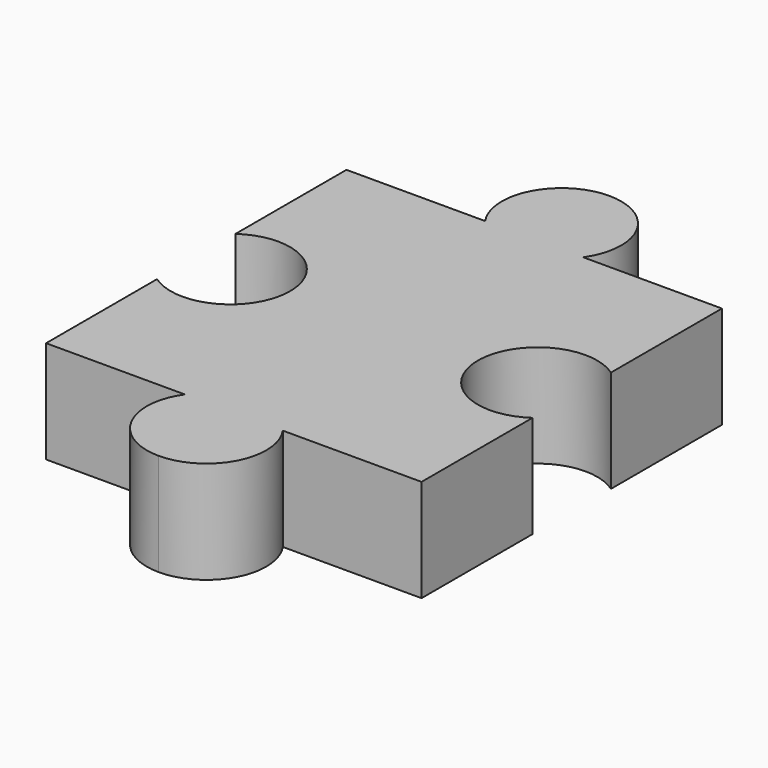
from build123d import *

# Parameters (mm, degrees)
F0_W     = 220
F0_H     = 330
F1_DEPTH = 60
F3_DEPTH = 60.001
F4_R     = 35
F5_DEPTH = 60.001


with BuildPart() as f1:
    # F0 (on Top) → F1 (new body)
    with BuildSketch(Plane.XY):
        Rectangle(F0_W, F0_H)
    extrude(amount=F1_DEPTH)

    # F2 (on face) → F3 (cut, through all)
    with BuildSketch(Plane.XY.offset(60)):
        with BuildLine():
            ThreePointArc((-28.722813, 110), (-31.024184, 146.201852), (0, 165))
            Line((0, 165), (-110, 165))
            Line((-110, 165), (-110, 110))
            Line((-110, 110), (-28.722813, 110))
        make_face()
        with BuildLine():
            ThreePointArc((0, 165), (31.024184, 146.201852), (28.722813, 110))
            Line((28.722813, 110), (110, 110))
            Line((110, 110), (110, 165))
            Line((110, 165), (0, 165))
        make_face()
        with BuildLine():
            Line((110, -165), (110, -110))
            Line((110, -110), (28.722813, -110))
            ThreePointArc((28.722813, -110), (31.024184, -146.201852), (0, -165))
            Line((0, -165), (110, -165))
        make_face()
        with BuildLine():
            Line((-110, -165), (0, -165))
            ThreePointArc((0, -165), (-31.024184, -146.201852), (-28.722813, -110))
            Line((-28.722813, -110), (-110, -110))
            Line((-110, -110), (-110, -165))
        make_face()
    extrude(amount=-F3_DEPTH, mode=Mode.SUBTRACT)

    # F4 (on face) → F5 (cut, through all)
    with BuildSketch(Plane.XY.offset(60)):
        with Locations((-90, 0)):
            Circle(F4_R)
        with Locations((90, 0)):
            Circle(F4_R)
    extrude(amount=-F5_DEPTH, mode=Mode.SUBTRACT)


solid = f1.part
